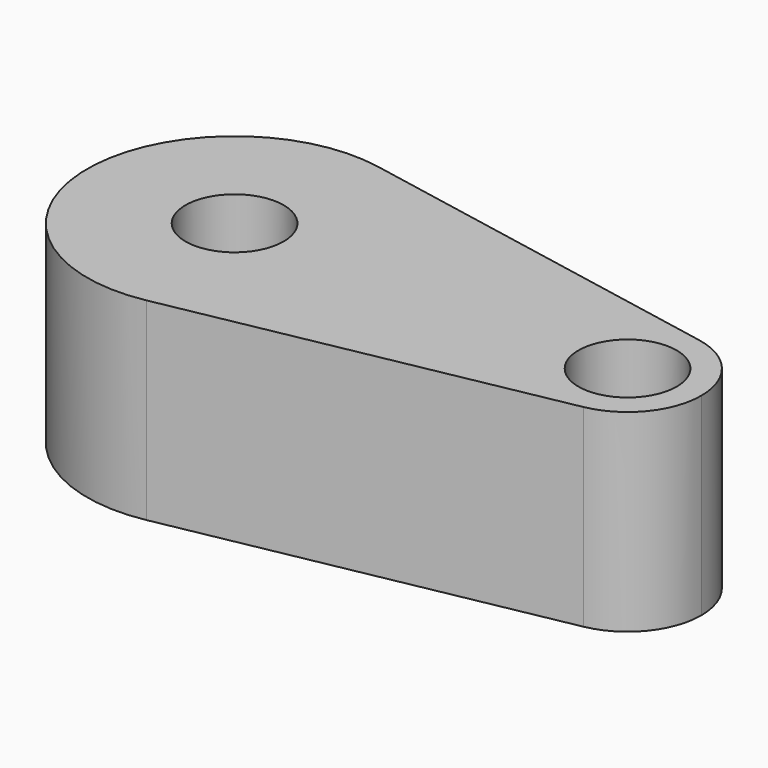
from build123d import *

# Parameters (mm, degrees)
F0_R     = 6.35
F1_DEPTH = 25


with BuildPart() as f1:
    # F0 (on Top) → F1 (new body)
    with BuildSketch(Plane.XY):
        with BuildLine():
            ThreePointArc((60.325, 0), (58.139505, 6.07102), (52.585938, 9.35607))
            ThreePointArc((52.585938, 9.35607), (41.275, 0), (52.585938, -9.35607))
            ThreePointArc((52.585938, -9.35607), (58.139505, -6.07102), (60.325, 0))
        make_face()
        with Locations((50.8, 0)):
            Circle(F0_R, mode=Mode.SUBTRACT)
        with BuildLine():
            ThreePointArc((3.571875, 18.712141), (14.679011, 12.14204), (19.05, 0))
            ThreePointArc((19.05, 0), (14.679011, -12.14204), (3.571875, -18.712141))
            Line((3.571875, -18.712141), (52.585938, -9.35607))
            ThreePointArc((52.585938, -9.35607), (41.275, 0), (52.585938, 9.35607))
            Line((52.585938, 9.35607), (3.571875, 18.712141))
        make_face()
        with BuildLine():
            ThreePointArc((3.571875, -18.712141), (14.679011, -12.14204), (19.05, 0))
            ThreePointArc((19.05, 0), (14.679011, 12.14204), (3.571875, 18.712141))
            ThreePointArc((3.571875, 18.712141), (-19.05, 0), (3.571875, -18.712141))
        make_face()
        Circle(F0_R, mode=Mode.SUBTRACT)
    extrude(amount=F1_DEPTH)


solid = f1.part
